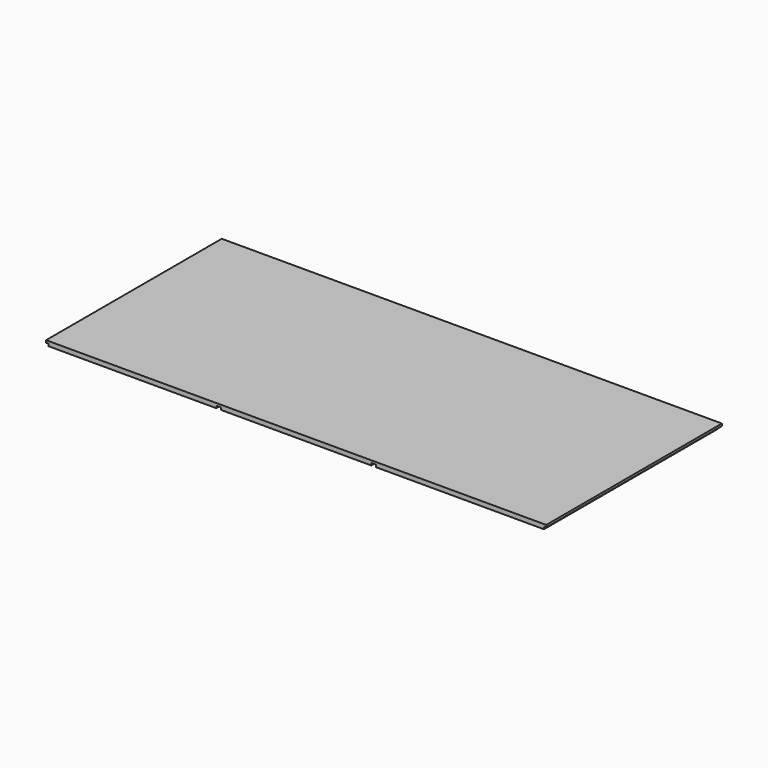
from build123d import *

# Parameters (mm, degrees)
F0_W     = 2082.8
F0_H     = 914.4
F2_DEPTH = 9.525
F1_W     = 699.5541
F1_H     = 904.875
F1_W_2   = 626.5418
F3_DEPTH = 9.525


with BuildPart() as f2:
    # F0 (on Top) → F2 (new body)
    with BuildSketch(Plane.XY):
        Rectangle(F0_W, F0_H)
    extrude(amount=F2_DEPTH)

    # F1 (on Top) → F3 (join)
    with BuildSketch(Plane.XY):
        with Locations((-682.09795, -4.7625)):
            Rectangle(F1_W, F1_H)
        with Locations((682.09795, -4.7625)):
            Rectangle(F1_W, F1_H)
        with Locations((0, -4.7625)):
            Rectangle(F1_W_2, F1_H)
    extrude(amount=-F3_DEPTH)


solid = f2.part
